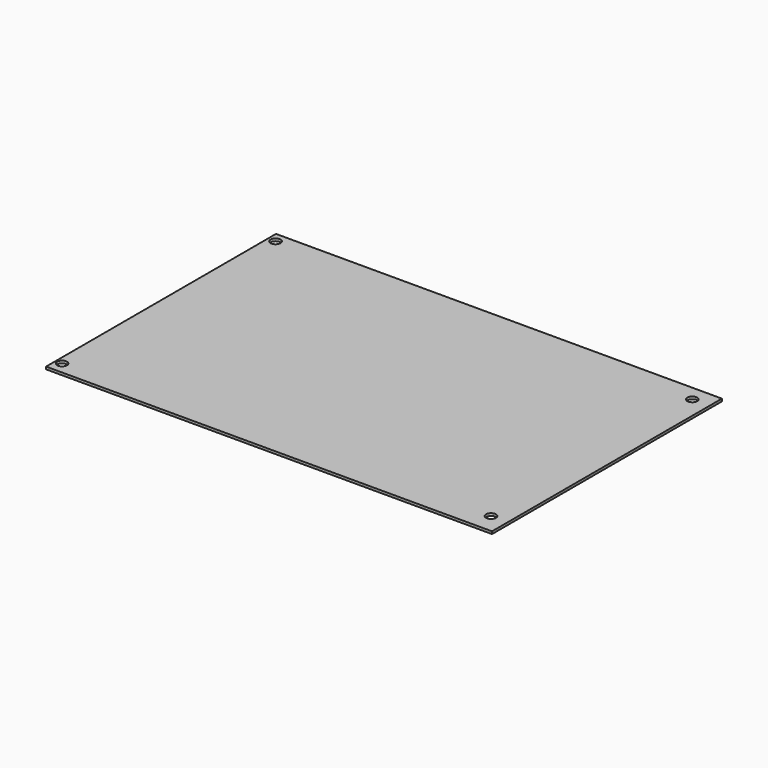
from build123d import *

# Parameters (mm, degrees)
F0_W     = 571.5
F0_H     = 368.3
F1_DEPTH = 3.175
F2_R     = 6.35
F3_DEPTH = 25.4
F4_R     = 6.35
F5_DEPTH = 25.4
F6_R     = 6.35
F7_DEPTH = 25.4
F8_R     = 6.35
F9_DEPTH = 25.4


with BuildPart() as f1:
    # F0 (on Top) → F1 (new body)
    with BuildSketch(Plane.XY):
        with Locations((5.508766, 26.848752)):
            Rectangle(F0_W, F0_H)
    extrude(amount=F1_DEPTH)

    # F2 (on face) → F3 (cut)
    with BuildSketch(Plane.XY.offset(3.175)):
        with Locations((-271.89365, -142.056122)):
            Circle(F2_R)
    extrude(amount=-F3_DEPTH, mode=Mode.SUBTRACT)

    # F4 (on face) → F5 (cut)
    with BuildSketch(Plane.XY.offset(3.175)):
        with Locations((-270.444542, 198.070601)):
            Circle(F4_R)
    extrude(amount=-F5_DEPTH, mode=Mode.SUBTRACT)

    # F6 (on face) → F7 (cut)
    with BuildSketch(Plane.XY.offset(3.175)):
        with Locations((269.148499, 191.218898)):
            Circle(F6_R)
    extrude(amount=-F7_DEPTH, mode=Mode.SUBTRACT)

    # F8 (on face) → F9 (cut)
    with BuildSketch(Plane.XY.offset(3.175)):
        with Locations((269.874841, -132.121533)):
            Circle(F8_R)
    extrude(amount=-F9_DEPTH, mode=Mode.SUBTRACT)


solid = f1.part
